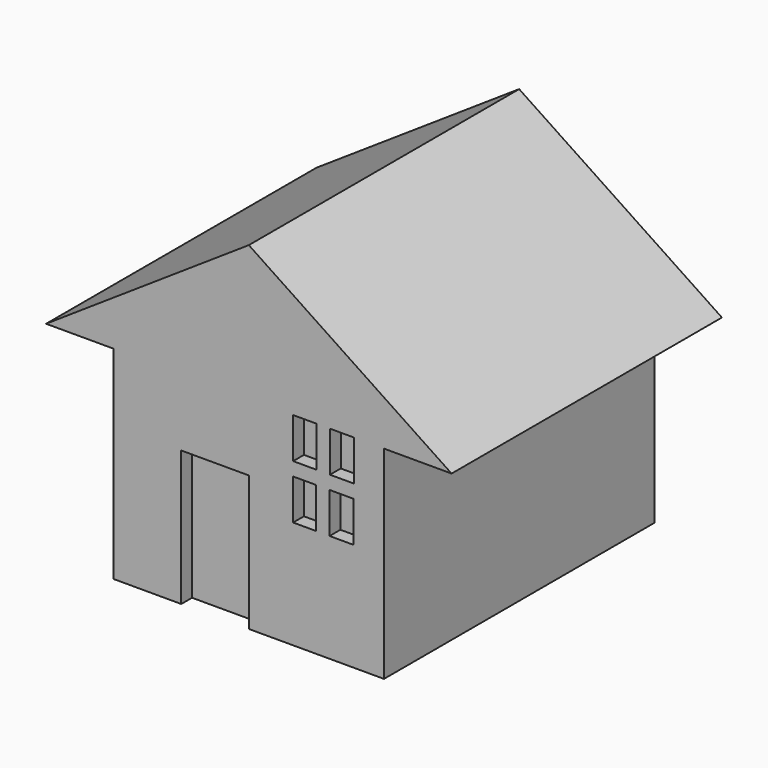
from build123d import *

# Parameters (mm, degrees)
PAD_DEPTH       = 50
SKETCH001_W     = 10
SKETCH001_H     = 20
POCKET_DEPTH    = 2
SKETCH002_W     = 3.446111
SKETCH002_H     = 6
SKETCH002_W_2   = 3.56074
SKETCH002_W_3   = 3.39247
SKETCH002_W_4   = 3.502147
POCKET001_DEPTH = 2


with BuildPart() as part:
    # Sketch → Pad (new body)
    with BuildSketch(Plane.XZ):
        Polygon((0, 0), (0, 30), (-10, 30), (20, 50), (50, 30), (40, 30), (40, 0), align=None)
    extrude(amount=PAD_DEPTH)

    # Sketch001 (on Face9 of Pad) → Pocket (cut)
    with BuildSketch(Plane.XZ.offset(50)):
        with Locations((15, 10)):
            Rectangle(SKETCH001_W, SKETCH001_H)
    extrude(amount=-POCKET_DEPTH, mode=Mode.SUBTRACT)

    # Sketch002 (on Face5 of Pocket) → Pocket001 (cut)
    with BuildSketch(Plane.XZ.offset(50)):
        with Locations((28.280043, 26.997097)):
            Rectangle(SKETCH002_W, SKETCH002_H)
        with Locations((33.783469, 26.997097)):
            Rectangle(SKETCH002_W_2, SKETCH002_H)
        with Locations((28.253223, 18.997097)):
            Rectangle(SKETCH002_W_3, SKETCH002_H)
        with Locations((33.700531, 18.997097)):
            Rectangle(SKETCH002_W_4, SKETCH002_H)
    extrude(amount=-POCKET001_DEPTH, mode=Mode.SUBTRACT)


solid = part.part
